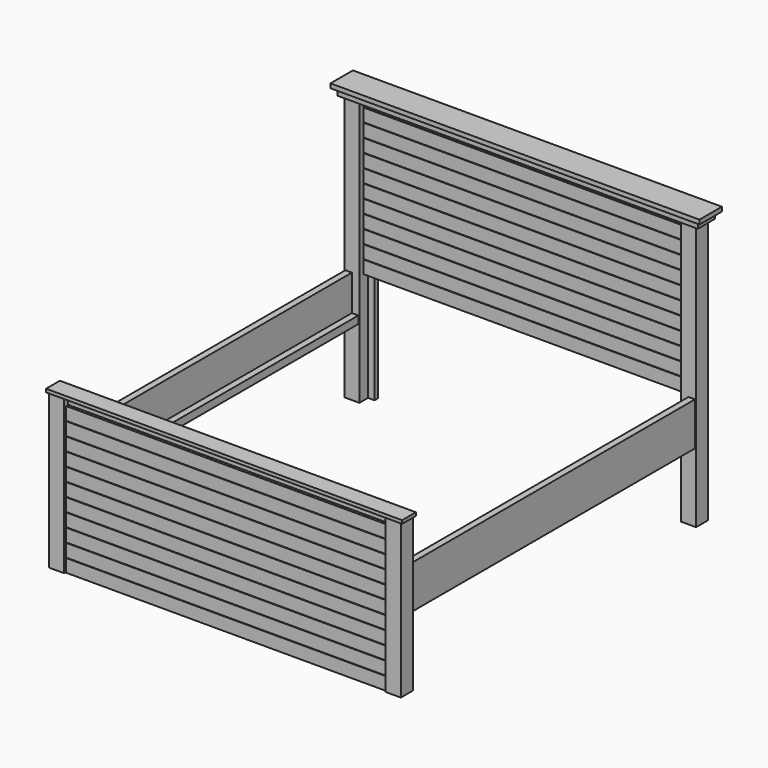
from build123d import *

# Parameters (mm, degrees)
F0_W      = 88.9
F0_H      = 88.9
F1_DEPTH  = 906.78
F2_W      = 25.4
F2_H      = 906.78
F3_DEPTH  = 25.4
F6_W      = 2095.5
F6_H      = 101.6
F7_DEPTH  = 19.05
F8_W      = 1887.22
F8_H      = 906.78
F9_DEPTH  = 19.05
F10_W     = 1887.22
F10_H     = 76.2
F11_DEPTH = 15.875
F12_W     = 38.1
F12_H     = 254
F13_DEPTH = 2082.8
F14_W     = 2082.8
F14_H     = 44.45
F15_DEPTH = 38.1
F17_W     = 88.9
F17_H     = 88.9
F18_DEPTH = 1562.1
F19_W     = 25.4
F19_H     = 1562.1
F20_DEPTH = 38.1
F22_W     = 2120.9
F22_H     = 127
F23_DEPTH = 38.1
F24_W     = 1813.56
F24_H     = 25.4
F25_DEPTH = 38.1
F26_W     = 1889.125
F26_H     = 904.875
F27_DEPTH = 19.05
F28_W     = 1887.22
F28_H     = 76.2
F29_DEPTH = 15.875
F30_W     = 2171.7
F30_H     = 165.1
F31_DEPTH = 25.4


with BuildPart() as f1:
    # F0 (on Top) → F1 (new body)
    with BuildSketch(Plane.XY):
        Rectangle(F0_W, F0_H)
    extrude(amount=F1_DEPTH)


with BuildPart() as f3:
    # F2 (on face) → F3 (new body)
    with BuildSketch(Plane.YZ.offset(44.45)):
        with Locations((12.7, 453.39)):
            Rectangle(F2_W, F2_H)
    extrude(amount=F3_DEPTH)


with BuildPart() as f5_1:
    # F5: instance of F1
    add(f1.part.mirror(Plane.YZ.offset(990.6)))



with BuildPart() as f5_2:
    # F5: instance of F3
    add(f3.part.mirror(Plane.YZ.offset(990.6)))


with BuildPart() as f7:
    # F6 (on face) → F7 (new body)
    with BuildSketch(Plane.XY.offset(906.78)):
        with Locations((990.6, 0)):
            Rectangle(F6_W, F6_H)
    extrude(amount=F7_DEPTH)


with BuildPart() as f9:
    # F8 (on face) → F9 (new body)
    with BuildSketch(Plane.XZ):
        with Locations((990.6, 453.39)):
            Rectangle(F8_W, F8_H)
    extrude(amount=F9_DEPTH)


with BuildPart() as f11:
    # F10 (on face) → F11 (new body)
    with BuildSketch(Plane.XZ.offset(19.05)):
        with Locations((990.6, 38.1)):
            Rectangle(F10_W, F10_H)
    extrude(amount=F11_DEPTH)


with BuildPart() as f11b:
    # F10 (on face) → F11, piece 2 (new body)
    with BuildSketch(Plane.XZ.offset(19.05)):
        with Locations((990.6, 116.84)):
            Rectangle(F10_W, F10_H)
    extrude(amount=F11_DEPTH)


with BuildPart() as f11c:
    # F10 (on face) → F11, piece 3 (new body)
    with BuildSketch(Plane.XZ.offset(19.05)):
        with Locations((990.6, 195.58)):
            Rectangle(F10_W, F10_H)
    extrude(amount=F11_DEPTH)


with BuildPart() as f11d:
    # F10 (on face) → F11, piece 4 (new body)
    with BuildSketch(Plane.XZ.offset(19.05)):
        with Locations((990.6, 274.32)):
            Rectangle(F10_W, F10_H)
    extrude(amount=F11_DEPTH)


with BuildPart() as f11e:
    # F10 (on face) → F11, piece 5 (new body)
    with BuildSketch(Plane.XZ.offset(19.05)):
        with Locations((990.6, 353.06)):
            Rectangle(F10_W, F10_H)
    extrude(amount=F11_DEPTH)


with BuildPart() as f11f:
    # F10 (on face) → F11, piece 6 (new body)
    with BuildSketch(Plane.XZ.offset(19.05)):
        with Locations((990.6, 431.8)):
            Rectangle(F10_W, F10_H)
    extrude(amount=F11_DEPTH)


with BuildPart() as f11g:
    # F10 (on face) → F11, piece 7 (new body)
    with BuildSketch(Plane.XZ.offset(19.05)):
        with Locations((990.6, 510.54)):
            Rectangle(F10_W, F10_H)
    extrude(amount=F11_DEPTH)


with BuildPart() as f11h:
    # F10 (on face) → F11, piece 8 (new body)
    with BuildSketch(Plane.XZ.offset(19.05)):
        with Locations((990.6, 589.28)):
            Rectangle(F10_W, F10_H)
    extrude(amount=F11_DEPTH)


with BuildPart() as f11i:
    # F10 (on face) → F11, piece 9 (new body)
    with BuildSketch(Plane.XZ.offset(19.05)):
        with Locations((990.6, 668.02)):
            Rectangle(F10_W, F10_H)
    extrude(amount=F11_DEPTH)


with BuildPart() as f11j:
    # F10 (on face) → F11, piece 10 (new body)
    with BuildSketch(Plane.XZ.offset(19.05)):
        with Locations((990.6, 746.76)):
            Rectangle(F10_W, F10_H)
    extrude(amount=F11_DEPTH)


with BuildPart() as f11k:
    # F10 (on face) → F11, piece 11 (new body)
    with BuildSketch(Plane.XZ.offset(19.05)):
        with Locations((990.6, 825.5)):
            Rectangle(F10_W, F10_H)
    extrude(amount=F11_DEPTH)


with BuildPart() as f13:
    # F12 (on face) → F13 (new body)
    with BuildSketch(Plane(origin=(0, 44.45, 0), x_dir=(-1, 0, 0), z_dir=(0, 1, 0))):
        with Locations((19.05, 533.4)):
            Rectangle(F12_W, F12_H)
    extrude(amount=F13_DEPTH)


with BuildPart() as f15:
    # F14 (on face) → F15 (new body)
    with BuildSketch(Plane.YZ):
        with Locations((1085.85, 428.625)):
            Rectangle(F14_W, F14_H)
    extrude(amount=F15_DEPTH)


with BuildPart() as f5_1_1:
    add(f5_1.part)

    add(f13.part)  # F16 merges F13

    add(f15.part)  # F16 merges F15
    # F16: F13, F15 across plane
    add(f13.part.mirror(Plane.YZ.offset(990.6)))
    add(f15.part.mirror(Plane.YZ.offset(990.6)))


with BuildPart() as f18:
    # F17 (on Top) → F18 (new body)
    with BuildSketch(Plane.XY):
        with Locations((0, 2171.7)):
            Rectangle(F17_W, F17_H)
    extrude(amount=F18_DEPTH)


with BuildPart() as f18b:
    # F17 (on Top) → F18, piece 2 (new body)
    with BuildSketch(Plane.XY):
        with Locations((1981.2, 2171.7)):
            Rectangle(F17_W, F17_H)
    extrude(amount=F18_DEPTH)


with BuildPart() as f20:
    # F19 (on face) → F20 (new body)
    with BuildSketch(Plane.YZ.offset(44.45)):
        with Locations((2203.45, 781.05)):
            Rectangle(F19_W, F19_H)
    extrude(amount=F20_DEPTH)


with BuildPart() as f21_1:
    # F21: instance of F20
    add(f20.part.mirror(Plane.YZ.offset(990.6)))


with BuildPart() as f23:
    # F22 (on face) → F23 (new body)
    with BuildSketch(Plane.XY.offset(1562.1)):
        with Locations((990.6, 2171.7)):
            Rectangle(F22_W, F22_H)
    extrude(amount=F23_DEPTH)


with BuildPart() as f25:
    # F24 (on face) → F25 (new body)
    with BuildSketch(Plane(origin=(0, 0, 1562.1), x_dir=(1, 0, 0), z_dir=(0, 0, -1))):
        with Locations((991.87, -2203.45)):
            Rectangle(F24_W, F24_H)
    extrude(amount=F25_DEPTH)


with BuildPart() as f27:
    # F26 (on face) → F27 (new body)
    with BuildSketch(Plane.XZ.offset(-2190.75)):
        with Locations((990.6, 1108.075)):
            Rectangle(F26_W, F26_H)
    extrude(amount=F27_DEPTH)


with BuildPart() as f29:
    # F28 (on face) → F29 (new body)
    with BuildSketch(Plane.XZ.offset(-2171.7)):
        with Locations((990.6, 693.7375)):
            Rectangle(F28_W, F28_H)
    extrude(amount=F29_DEPTH)


with BuildPart() as f29b:
    # F28 (on face) → F29, piece 2 (new body)
    with BuildSketch(Plane.XZ.offset(-2171.7)):
        with Locations((990.6, 772.4775)):
            Rectangle(F28_W, F28_H)
    extrude(amount=F29_DEPTH)


with BuildPart() as f29c:
    # F28 (on face) → F29, piece 3 (new body)
    with BuildSketch(Plane.XZ.offset(-2171.7)):
        with Locations((990.6, 851.2175)):
            Rectangle(F28_W, F28_H)
    extrude(amount=F29_DEPTH)


with BuildPart() as f29d:
    # F28 (on face) → F29, piece 4 (new body)
    with BuildSketch(Plane.XZ.offset(-2171.7)):
        with Locations((990.6, 929.9575)):
            Rectangle(F28_W, F28_H)
    extrude(amount=F29_DEPTH)


with BuildPart() as f29e:
    # F28 (on face) → F29, piece 5 (new body)
    with BuildSketch(Plane.XZ.offset(-2171.7)):
        with Locations((990.6, 1008.6975)):
            Rectangle(F28_W, F28_H)
    extrude(amount=F29_DEPTH)


with BuildPart() as f29f:
    # F28 (on face) → F29, piece 6 (new body)
    with BuildSketch(Plane.XZ.offset(-2171.7)):
        with Locations((990.6, 1087.4375)):
            Rectangle(F28_W, F28_H)
    extrude(amount=F29_DEPTH)


with BuildPart() as f29g:
    # F28 (on face) → F29, piece 7 (new body)
    with BuildSketch(Plane.XZ.offset(-2171.7)):
        with Locations((990.6, 1166.1775)):
            Rectangle(F28_W, F28_H)
    extrude(amount=F29_DEPTH)


with BuildPart() as f29h:
    # F28 (on face) → F29, piece 8 (new body)
    with BuildSketch(Plane.XZ.offset(-2171.7)):
        with Locations((990.6, 1244.9175)):
            Rectangle(F28_W, F28_H)
    extrude(amount=F29_DEPTH)


with BuildPart() as f29i:
    # F28 (on face) → F29, piece 9 (new body)
    with BuildSketch(Plane.XZ.offset(-2171.7)):
        with Locations((990.6, 1323.6575)):
            Rectangle(F28_W, F28_H)
    extrude(amount=F29_DEPTH)


with BuildPart() as f29j:
    # F28 (on face) → F29, piece 10 (new body)
    with BuildSketch(Plane.XZ.offset(-2171.7)):
        with Locations((990.6, 1402.3975)):
            Rectangle(F28_W, F28_H)
    extrude(amount=F29_DEPTH)


with BuildPart() as f29k:
    # F28 (on face) → F29, piece 11 (new body)
    with BuildSketch(Plane.XZ.offset(-2171.7)):
        with Locations((990.6, 1481.1375)):
            Rectangle(F28_W, F28_H)
    extrude(amount=F29_DEPTH)


with BuildPart() as f29l:
    # F28 (on face) → F29, piece 12 (new body)
    with BuildSketch(Plane.XZ.offset(-2171.7)):
        with Locations((990.6, 1559.8775)):
            Rectangle(F28_W, F28_H)
    extrude(amount=F29_DEPTH)


with BuildPart() as f31:
    # F30 (on face) → F31 (new body)
    with BuildSketch(Plane.XY.offset(1600.2)):
        with Locations((990.6, 2171.7)):
            Rectangle(F30_W, F30_H)
    extrude(amount=F31_DEPTH)


solid = Compound([f1.part, f3.part, f5_2.part, f7.part, f9.part, f11.part, f11b.part, f11c.part, f11d.part, f11e.part, f11f.part, f11g.part, f11h.part, f11i.part, f11j.part, f11k.part, f5_1_1.part, f18.part, f18b.part, f20.part, f21_1.part, f23.part, f25.part, f27.part, f29.part, f29b.part, f29c.part, f29d.part, f29e.part, f29f.part, f29g.part, f29h.part, f29i.part, f29j.part, f29k.part, f29l.part, f31.part])
